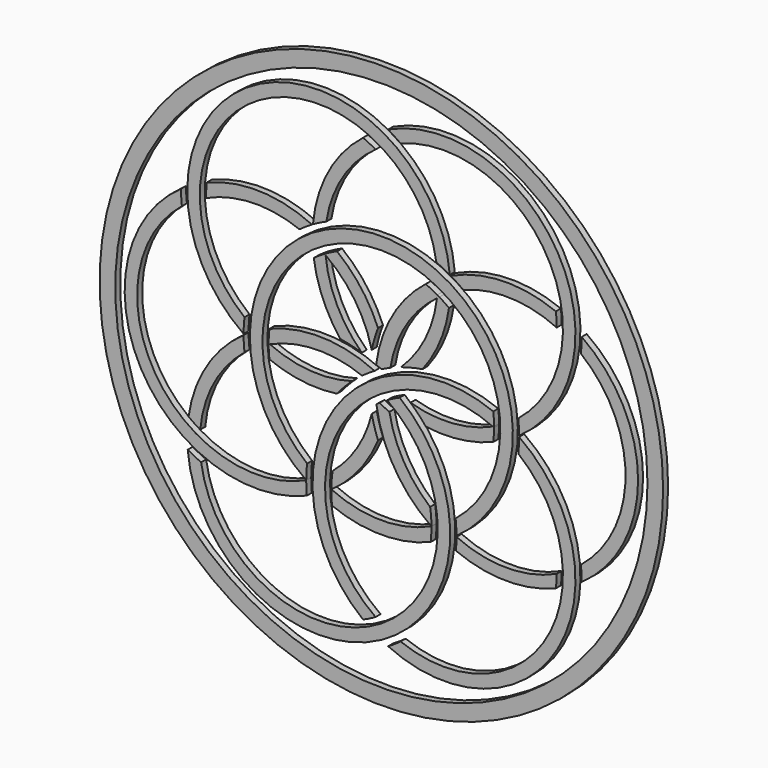
from build123d import *

# Parameters (mm, degrees)
F0_R     = 114.3
F0_R_2   = 107.95
F1_DEPTH = 2.54
F3_DEPTH = 2.54


with BuildPart() as f1:
    # F0 (on Front) → F1 (new body)
    with BuildSketch(Plane.XZ):
        Circle(F0_R)
        Circle(F0_R_2, mode=Mode.SUBTRACT)
    extrude(amount=-F1_DEPTH)


with BuildPart() as f3:
    # F2 (on Front) → F3 (new body)
    with BuildSketch(Plane.XZ):
        with BuildLine():
            ThreePointArc((-30.4795640664, -43.7733650005), (-30.3847868761, -40.733422914), (-30.1247543303, -37.7031401417))
            ThreePointArc((-30.1247543303, -37.7031401417), (0, 48.26), (30.1247543303, -37.7031401417))
            ThreePointArc((30.1247543303, -37.7031401417), (30.3848015954, -40.7336747472), (30.479566057, -43.7738695226))
            ThreePointArc((30.479566057, -43.7738695226), (0.0002643883, 53.3399999993), (-30.48, -43.7735673666))
            ThreePointArc((-30.48, -43.7735673666), (-30.4797820329, -43.7734661841), (-30.4795640664, -43.7733650005))
        make_face()
        with BuildLine():
            ThreePointArc((-30.479566057, -43.7738695226), (-30.4795650622, -43.7736172615), (-30.4795640664, -43.7733650005))
            ThreePointArc((-30.4795640664, -43.7733650005), (-30.4797820329, -43.7734661841), (-30.48, -43.7735673666))
            ThreePointArc((-30.48, -43.7735673666), (-30.4797830289, -43.7737184451), (-30.479566057, -43.7738695226))
        make_face()
        with BuildLine():
            ThreePointArc((-30.479566057, -43.7738695226), (-30.4797830289, -43.7737184451), (-30.48, -43.7735673666))
            ThreePointArc((-30.48, -43.7735673666), (-91.8322649688, -25.4043467055), (-80.9247543303, 37.7031401417))
            ThreePointArc((-80.9247543303, 37.7031401417), (-81.1848015954, 40.7336747472), (-81.279566057, 43.7738695226))
            ThreePointArc((-81.279566057, 43.7738695226), (-97.5586839931, -25.6667308249), (-30.2354369958, -49.2164032457))
            ThreePointArc((-30.2354369958, -49.2164032457), (-30.4238682805, -46.4981133163), (-30.479566057, -43.7738695226))
        make_face()
    extrude(amount=-F3_DEPTH)


with BuildPart() as f3b:
    # F2 (on Front) → F3, piece 2 (new body)
    with BuildSketch(Plane.XZ):
        with BuildLine():
            ThreePointArc((-55.879566057, 0.2202209897), (-55.7848015954, 3.2604157651), (-55.5247543303, 6.2909503706))
            ThreePointArc((-55.5247543303, 6.2909503706), (-49.53, 85.7884764989), (22.3142543303, 51.2313229742))
            ThreePointArc((22.3142543303, 51.2313229742), (25.0687979183, 49.9412632092), (27.749066057, 48.5032342526))
            ThreePointArc((27.749066057, 48.5032342526), (-52.07, 90.1878855501), (-55.879566057, 0.2202209897))
        make_face()
    extrude(amount=-F3_DEPTH)


with BuildPart() as f3c:
    # F2 (on Front) → F3, piece 3 (new body)
    with BuildSketch(Plane.XZ):
        with BuildLine():
            ThreePointArc((7.4295, -1.9538772665), (4.849718735, -3.1528816671), (2.3495, -4.5100070133))
            ThreePointArc((2.3495, -4.5100070133), (0.0040979991, -85.0265094618), (-73.1142543303, -51.2313229742))
            ThreePointArc((-73.1142543303, -51.2313229742), (-75.8687979183, -49.9412632092), (-78.549066057, -48.5032342526))
            ThreePointArc((-78.549066057, -48.5032342526), (-0.0044915361, -90.9006332313), (7.4295, -1.9538772665))
        make_face()
    extrude(amount=-F3_DEPTH)


with BuildPart() as f3d:
    # F2 (on Front) → F3, piece 4 (new body)
    with BuildSketch(Plane.XZ):
        with BuildLine():
            ThreePointArc((2.7305, 92.2771037752), (5.3160036771, 90.6749379564), (7.8105, 88.9344631158))
            ThreePointArc((7.8105, 88.9344631158), (67.1943859866, 68.1240905122), (55.5247543303, 6.2909503706))
            ThreePointArc((55.5247543303, 6.2909503706), (55.7848015954, 3.2604157651), (55.879566057, 0.2202209897))
            ThreePointArc((55.879566057, 0.2202209897), (71.5937950379, 70.6640905122), (2.7305, 92.2771037752))
        make_face()
    extrude(amount=-F3_DEPTH)


with BuildPart() as f3e:
    # F2 (on Front) → F3, piece 5 (new body)
    with BuildSketch(Plane.XZ):
        with BuildLine():
            ThreePointArc((-22.3142543303, 51.2313229742), (-15.6324189496, 69.3981885113), (-2.3495, 83.4781740112))
            ThreePointArc((-2.3495, 83.4781740112), (-4.849718735, 84.8352993574), (-7.4295, 86.034303758))
            ThreePointArc((-7.4295, 86.034303758), (-21.5065427191, 69.3895989762), (-27.749066057, 48.5032342526))
            ThreePointArc((-27.749066057, 48.5032342526), (-25.0687979183, 49.9412632092), (-22.3142543303, 51.2313229742))
        make_face()
    extrude(amount=-F3_DEPTH)


with BuildPart() as f3f:
    # F2 (on Front) → F3, piece 6 (new body)
    with BuildSketch(Plane.XZ):
        with BuildLine():
            ThreePointArc((-70.7931426514, 49.4512876164), (-71.0446650136, 46.6176293044), (-71.1194693552, 43.7738136918))
            ThreePointArc((-71.1194693552, 43.7738136918), (-52.2843847526, 48.2371661886), (-33.2105, 44.9403726036))
            ThreePointArc((-33.2105, 44.9403726036), (-30.7160036771, 46.6808474442), (-28.1305, 48.2830132629))
            ThreePointArc((-28.1305, 48.2830132629), (-49.3398841122, 53.3200118304), (-70.7931426514, 49.4512876164))
        make_face()
    extrude(amount=-F3_DEPTH)


with BuildPart() as f3g:
    # F2 (on Front) → F3, piece 7 (new body)
    with BuildSketch(Plane.XZ):
        with BuildLine():
            ThreePointArc((80.9247543303, -37.7031401417), (81.1848015954, -40.7336747472), (81.279566057, -43.7738695226))
            ThreePointArc((81.279566057, -43.7738695226), (104.14, 0), (81.279566057, 43.7738695226))
            ThreePointArc((81.279566057, 43.7738695226), (81.1848015954, 40.7336747472), (80.9247543303, 37.7031401417))
            ThreePointArc((80.9247543303, 37.7031401417), (99.06, 0), (80.9247543303, -37.7031401417))
        make_face()
    extrude(amount=-F3_DEPTH)


with BuildPart() as f3h:
    # F2 (on Front) → F3, piece 8 (new body)
    with BuildSketch(Plane.XZ):
        with BuildLine():
            ThreePointArc((45.7194693552, 0.2202768205), (45.6314951561, 2.8434222023), (45.3931426514, 5.4571971042))
            ThreePointArc((45.3931426514, 5.4571971042), (-20.7937950379, -17.3240905122), (-7.4295, -86.034303758))
            ThreePointArc((-7.4295, -86.034303758), (-4.849718735, -84.8352993574), (-2.3495, -83.4781740112))
            ThreePointArc((-2.3495, -83.4781740112), (-16.5261160487, -20.093705723), (45.2380341768, 0))
            ThreePointArc((45.2380341768, 0), (45.479053836, 0.1094782085), (45.7194693552, 0.2202768205))
        make_face()
        with BuildLine():
            ThreePointArc((45.7194693552, -0.2202768205), (45.72, 0), (45.7194693552, 0.2202768205))
            ThreePointArc((45.7194693552, 0.2202768205), (45.479053836, 0.1094782085), (45.2380341768, 0))
            ThreePointArc((45.2380341768, 0), (45.479053836, -0.1094782085), (45.7194693552, -0.2202768205))
        make_face()
        with BuildLine():
            ThreePointArc((45.3931426514, -5.4571971042), (45.6314951561, -2.8434222023), (45.7194693552, -0.2202768205))
            ThreePointArc((45.7194693552, -0.2202768205), (45.479053836, -0.1094782085), (45.2380341768, 0))
            ThreePointArc((45.2380341768, 0), (28.7381728295, -4.1503193622), (11.8234160943, -2.3168581873))
            ThreePointArc((11.8234160943, -2.3168581873), (15.0594576912, -5.4505218745), (18.0325765656, -8.8346580243))
            ThreePointArc((18.0325765656, -8.8346580243), (31.9348302964, -8.9440960169), (45.3931426514, -5.4571971042))
        make_face()
    extrude(amount=-F3_DEPTH)


with BuildPart() as f3i:
    # F2 (on Front) → F3, piece 9 (new body)
    with BuildSketch(Plane.XZ):
        with BuildLine():
            ThreePointArc((55.879566057, -0.2202209897), (55.7848015954, -3.2604157651), (55.5247543303, -6.2909503706))
            ThreePointArc((55.5247543303, -6.2909503706), (67.1943859866, -68.1240905122), (7.8105, -88.9344631158))
            ThreePointArc((7.8105, -88.9344631158), (5.3160036771, -90.6749379564), (2.7305, -92.2771037752))
            ThreePointArc((2.7305, -92.2771037752), (71.5937950379, -70.6640905122), (55.879566057, -0.2202209897))
        make_face()
    extrude(amount=-F3_DEPTH)


with BuildPart() as f3j:
    # F2 (on Front) → F3, piece 10 (new body)
    with BuildSketch(Plane.XZ):
        with BuildLine():
            ThreePointArc((-73.4689693552, -39.7043603194), (-67.9168037022, -21.1610223227), (-55.5247543303, -6.2909503706))
            ThreePointArc((-55.5247543303, -6.2909503706), (-55.7848015954, -3.2604157651), (-55.879566057, -0.2202209897))
            ThreePointArc((-55.879566057, -0.2202209897), (-70.8464268313, -16.0695871458), (-78.2226426514, -36.5830161416))
            ThreePointArc((-78.2226426514, -36.5830161416), (-75.8943837486, -38.217670053), (-73.4689693552, -39.7043603194))
        make_face()
    extrude(amount=-F3_DEPTH)


with BuildPart() as f3k:
    # F2 (on Front) → F3, piece 11 (new body)
    with BuildSketch(Plane.XZ):
        with BuildLine():
            ThreePointArc((-2.7305, 4.2889227507), (-23.9398841122, 9.3259213182), (-45.3931426514, 5.4571971042))
            ThreePointArc((-45.3931426514, 5.4571971042), (-45.6314951561, 2.8434222023), (-45.7194693552, 0.2202768205))
            ThreePointArc((-45.7194693552, 0.2202768205), (-45.479053836, 0.1094782085), (-45.2380341768, 0))
            ThreePointArc((-45.2380341768, 0), (-26.6197700337, 4.2504921999), (-7.8105, 0.9462820913))
            ThreePointArc((-7.8105, 0.9462820913), (-5.3160036771, 2.6867569319), (-2.7305, 4.2889227507))
        make_face()
        with BuildLine():
            ThreePointArc((-45.2380341768, 0), (-45.479053836, 0.1094782085), (-45.7194693552, 0.2202768205))
            ThreePointArc((-45.7194693552, 0.2202768205), (-45.72, 0), (-45.7194693552, -0.2202768205))
            ThreePointArc((-45.7194693552, -0.2202768205), (-45.479053836, -0.1094782085), (-45.2380341768, 0))
        make_face()
        with BuildLine():
            ThreePointArc((-45.2380341768, 0), (-45.479053836, -0.1094782085), (-45.7194693552, -0.2202768205))
            ThreePointArc((-45.7194693552, -0.2202768205), (-45.6314951561, -2.8434222023), (-45.3931426514, -5.4571971042))
            ThreePointArc((-45.3931426514, -5.4571971042), (-31.9348302964, -8.9440960169), (-18.0325765656, -8.8346580243))
            ThreePointArc((-18.0325765656, -8.8346580243), (-15.0594576912, -5.4505218745), (-11.8234160943, -2.3168581873))
            ThreePointArc((-11.8234160943, -2.3168581873), (-28.7381728295, -4.1503193622), (-45.2380341768, 0))
        make_face()
    extrude(amount=-F3_DEPTH)


with BuildPart() as f3l:
    # F2 (on Front) → F3, piece 12 (new body)
    with BuildSketch(Plane.XZ):
        with BuildLine():
            ThreePointArc((28.1305, 48.2830132629), (30.7160036771, 46.6808474442), (33.2105, 44.9403726036))
            ThreePointArc((33.2105, 44.9403726036), (52.2843847526, 48.2371661886), (71.1194693552, 43.7738136918))
            ThreePointArc((71.1194693552, 43.7738136918), (71.0446650136, 46.6176293044), (70.7931426514, 49.4512876164))
            ThreePointArc((70.7931426514, 49.4512876164), (49.3398841122, 53.3200118304), (28.1305, 48.2830132629))
        make_face()
    extrude(amount=-F3_DEPTH)


with BuildPart() as f3m:
    # F2 (on Front) → F3, piece 13 (new body)
    with BuildSketch(Plane.XZ):
        with BuildLine():
            ThreePointArc((22.6689693552, 39.7043603194), (20.3532717171, 40.939745119), (17.9705, 42.0402132458))
            ThreePointArc((17.9705, 42.0402132458), (4.4525265653, 26.4020322365), (-2.1049369958, 6.7987676435))
            ThreePointArc((-2.1049369958, 6.7987676435), (-1.0471357752, 6.3001676496), (0, 5.7795410611))
            ThreePointArc((0, 5.7795410611), (1.8083693615, 6.6617024814), (3.6473252028, 7.4781888152))
            ThreePointArc((3.6473252028, 7.4781888152), (10.0332728398, 24.8469717497), (22.5442498176, 38.4826016548))
            ThreePointArc((22.5442498176, 38.4826016548), (22.6104961185, 39.0930842422), (22.6689693552, 39.7043603194))
        make_face()
        with BuildLine():
            ThreePointArc((23.5399640897, 39.1942405291), (23.1058745361, 39.4517041701), (22.6689693552, 39.7043603194))
            ThreePointArc((22.6689693552, 39.7043603194), (22.6104961185, 39.0930842422), (22.5442498176, 38.4826016548))
            ThreePointArc((22.5442498176, 38.4826016548), (23.0398264803, 38.8416118955), (23.5399640897, 39.1942405291))
        make_face()
        with BuildLine():
            ThreePointArc((23.5399640897, 39.1942405291), (23.0398264803, 38.8416118955), (22.5442498176, 38.4826016548))
            ThreePointArc((22.5442498176, 38.4826016548), (17.8089035477, 22.499480625), (7.9181660943, 9.0809496036))
            ThreePointArc((7.9181660943, 9.0809496036), (12.2500192528, 10.3166119906), (16.6673265656, 11.1993403893))
            ThreePointArc((16.6673265656, 11.1993403893), (23.7132295127, 23.1843262938), (27.4226426514, 36.5830161416))
            ThreePointArc((27.4226426514, 36.5830161416), (25.5147299547, 37.9383309509), (23.5399640897, 39.1942405291))
        make_face()
    extrude(amount=-F3_DEPTH)


with BuildPart() as f3n:
    # F2 (on Front) → F3, piece 14 (new body)
    with BuildSketch(Plane.XZ):
        with BuildLine():
            ThreePointArc((-19.7768096998, -36.9674081266), (-20.172154209, -40.3202422913), (-20.3190092844, -43.6931086989))
            ThreePointArc((-20.3190092844, -43.6931086989), (-20.2846796317, -43.7090569369), (-20.2503374614, -43.7249782021))
            ThreePointArc((-20.2503374614, -43.7249782021), (-9.0903824865, -33.2485098445), (-1.36525, -20.0339984136))
            ThreePointArc((-1.36525, -20.0339984136), (-2.8094384384, -15.7671338651), (-3.90525, -11.3978077909))
            ThreePointArc((-3.90525, -11.3978077909), (-9.7969212072, -25.4514268659), (-19.7768096998, -36.9674081266))
        make_face()
        with BuildLine():
            ThreePointArc((-20.2503374614, -43.7249782021), (-20.2846796317, -43.7090569369), (-20.3190092844, -43.6931086989))
            ThreePointArc((-20.3190092844, -43.6931086989), (-20.3192553654, -43.7331521456), (-20.319466374, -43.7731957923))
            ThreePointArc((-20.319466374, -43.7731957923), (-20.284892394, -43.7491006513), (-20.2503374614, -43.7249782021))
        make_face()
        with BuildLine():
            ThreePointArc((20.2503374614, -43.7249782021), (0, -48.1866152171), (-20.2503374614, -43.7249782021))
            ThreePointArc((-20.2503374614, -43.7249782021), (-20.284892394, -43.7491006513), (-20.319466374, -43.7731957923))
            ThreePointArc((-20.319466374, -43.7731957923), (-20.2446827412, -46.6173208601), (-19.9931426514, -49.4512876164))
            ThreePointArc((-19.9931426514, -49.4512876164), (0, -53.34), (19.9931426514, -49.4512876164))
            ThreePointArc((19.9931426514, -49.4512876164), (20.2446827412, -46.6173208601), (20.319466374, -43.7731957923))
            ThreePointArc((20.319466374, -43.7731957923), (20.284892394, -43.7491006513), (20.2503374614, -43.7249782021))
        make_face()
        with BuildLine():
            ThreePointArc((-2.0226426514, -7.4110743707), (5.331217071, -27.8880866851), (20.2503374614, -43.7249782021))
            ThreePointArc((20.2503374614, -43.7249782021), (20.2846796317, -43.7090569369), (20.3190092844, -43.6931086989))
            ThreePointArc((20.3190092844, -43.6931086989), (20.172154209, -40.3202422913), (19.7768096998, -36.9674081266))
            ThreePointArc((19.7768096998, -36.9674081266), (9.0056140134, -24.13), (3.2736903002, -8.3831668431))
            ThreePointArc((3.2736903002, -8.3831668431), (1.2417128395, -7.4775310911), (-0.7532823109, -6.4931008671))
            ThreePointArc((-0.7532823109, -6.4931008671), (-1.3918943475, -6.9466506915), (-2.0226426514, -7.4110743707))
        make_face()
        with BuildLine():
            ThreePointArc((20.3190092844, -43.6931086989), (20.2846796317, -43.7090569369), (20.2503374614, -43.7249782021))
            ThreePointArc((20.2503374614, -43.7249782021), (20.284892394, -43.7491006513), (20.319466374, -43.7731957923))
            ThreePointArc((20.319466374, -43.7731957923), (20.3192553654, -43.7331521456), (20.3190092844, -43.6931086989))
        make_face()
    extrude(amount=-F3_DEPTH)


with BuildPart() as f3o:
    # F2 (on Front) → F3, piece 15 (new body)
    with BuildSketch(Plane.XZ):
        with BuildLine():
            ThreePointArc((70.7931426514, -49.4512876164), (71.0325656255, -46.8202813121), (71.1196226768, -44.1798384319))
            ThreePointArc((71.1196226768, -44.1798384319), (50.7996230123, -48.6286457703), (30.4796923278, -44.1795233757))
            ThreePointArc((30.4796923278, -44.1795233757), (30.4144117296, -46.7007200172), (30.2354369958, -49.2164032457))
            ThreePointArc((30.2354369958, -49.2164032457), (50.491093911, -53.3391055139), (70.7931426514, -49.4512876164))
        make_face()
    extrude(amount=-F3_DEPTH)


with BuildPart() as f3p:
    # F2 (on Front) → F3, piece 16 (new body)
    with BuildSketch(Plane.XZ):
        with BuildLine():
            ThreePointArc((-17.9705, 42.0402132458), (-20.3597653172, 40.9365161711), (-22.6815640134, 39.6971668247))
            ThreePointArc((-22.6815640134, 39.6971668247), (-22.6581056936, 39.442296548), (-22.6332963696, 39.1875542309))
            ThreePointArc((-22.6332963696, 39.1875542309), (-10.7797181784, 26.9704401692), (-3.90525, 11.3978077909))
            ThreePointArc((-3.90525, 11.3978077909), (-2.8094384384, 15.7671338651), (-1.36525, 20.0339984136))
            ThreePointArc((-1.36525, 20.0339984136), (-8.2216007837, 32.1284223107), (-17.9705, 42.0402132458))
        make_face()
        with BuildLine():
            ThreePointArc((-22.6332963696, 39.1875542309), (-22.6581056936, 39.442296548), (-22.6815640134, 39.6971668247))
            ThreePointArc((-22.6815640134, 39.6971668247), (-22.8662802147, 39.5910549132), (-23.0505, 39.4840834989))
            ThreePointArc((-23.0505, 39.4840834989), (-22.8415050564, 39.3363719792), (-22.6332963696, 39.1875542309))
        make_face()
        with BuildLine():
            ThreePointArc((-7.9472971643, 9.0905359226), (-17.983843522, 22.8247146969), (-22.6332963696, 39.1875542309))
            ThreePointArc((-22.6332963696, 39.1875542309), (-22.8415050564, 39.3363719792), (-23.0505, 39.4840834989))
            ThreePointArc((-23.0505, 39.4840834989), (-25.2782234389, 38.0963229167), (-27.4226426514, 36.5830161416))
            ThreePointArc((-27.4226426514, 36.5830161416), (-23.7132295127, 23.1843262938), (-16.6673265656, 11.1993403893))
            ThreePointArc((-16.6673265656, 11.1993403893), (-12.2649230428, 10.3202184066), (-7.9472971643, 9.0905359226))
        make_face()
    extrude(amount=-F3_DEPTH)


solid = Compound([f1.part, f3.part, f3b.part, f3c.part, f3d.part, f3e.part, f3f.part, f3g.part, f3h.part, f3i.part, f3j.part, f3k.part, f3l.part, f3m.part, f3n.part, f3o.part, f3p.part])
